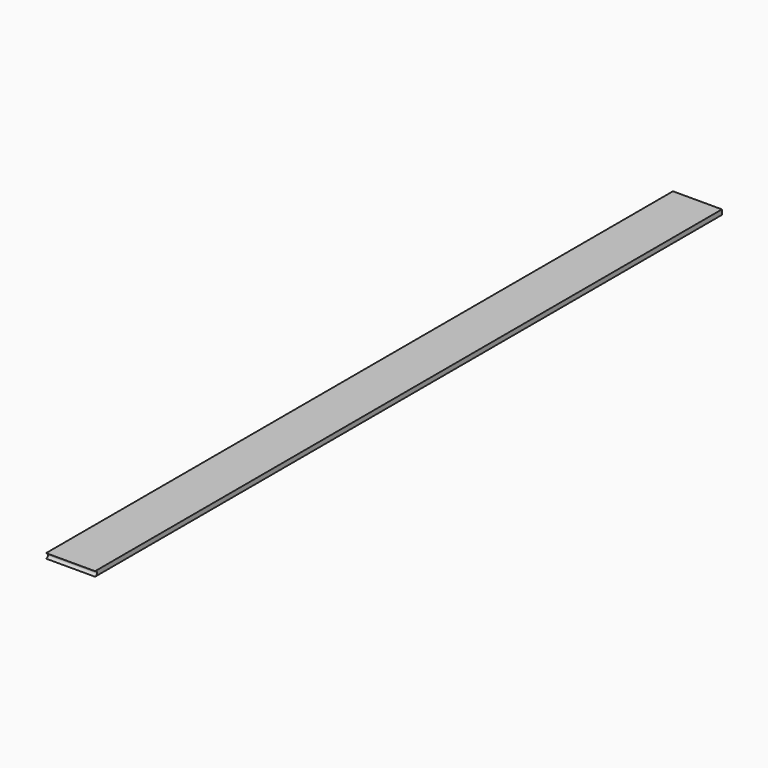
from build123d import *

# Parameters (mm, degrees)
F1_DEPTH = 12.7


with BuildPart() as f1:
    # F0 (on Right) → F1 (new body, symmetric)
    with BuildSketch(Plane.YZ):
        with BuildLine():
            ThreePointArc((0, 1.27), (0.898026, 0.898026), (1.27, 0))
            ThreePointArc((1.27, 0), (0.898026, -0.898026), (0, -1.27))
            Line((0, -1.27), (406.4, -1.27))
            Line((406.4, -1.27), (406.4, 1.27))
            Line((406.4, 1.27), (0, 1.27))
        make_face()
    extrude(amount=F1_DEPTH, both=True)


solid = f1.part
